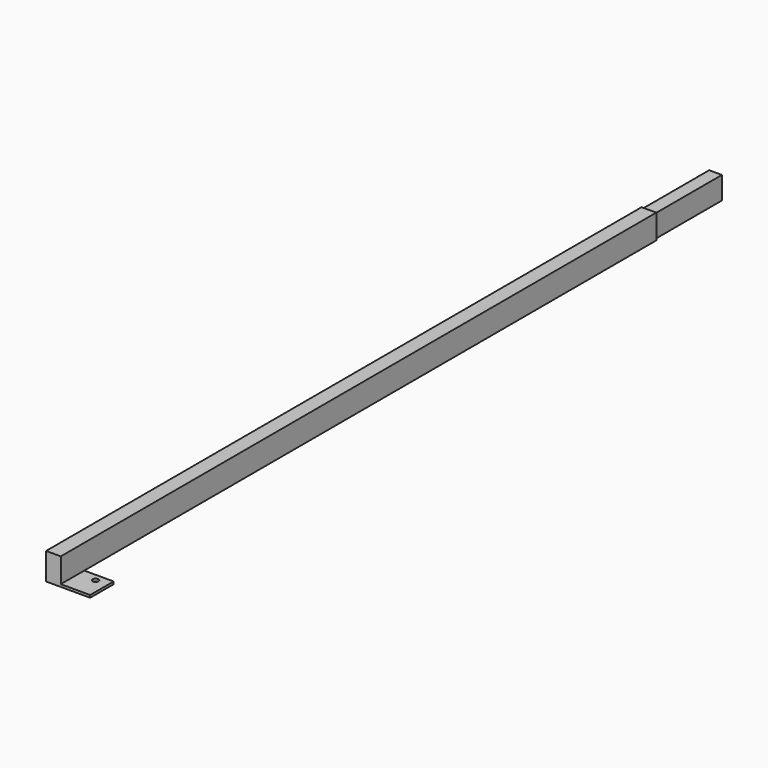
from build123d import *

# Parameters (mm, degrees)
F0_W     = 26
F0_H     = 46
F1_DEPTH = 170
F2_W     = 30
F2_H     = 50
F3_DEPTH = 1520
F5_DEPTH = 5


with BuildPart() as f1:
    # F0 (on Front) → F1 (new body)
    with BuildSketch(Plane.XZ):
        Rectangle(F0_W, F0_H)
    extrude(amount=F1_DEPTH)

    # F2 (on face) → F3 (join)
    with BuildSketch(Plane.XZ.offset(170)):
        Rectangle(F2_W, F2_H)
    extrude(amount=F3_DEPTH)

    # F4 (on face) → F5 (join)
    with BuildSketch(Plane(origin=(0, 0, -25), x_dir=(1, 0, 0), z_dir=(0, 0, -1))):
        Polygon((15, 1690), (-15, 1690), (-15, 1630), (15, 1630), (15, 1645), align=None)
        with BuildLine():
            ThreePointArc((56, 1645), (50, 1651), (44, 1645))
            ThreePointArc((44, 1645), (50, 1639), (56, 1645))
        make_face()
        Polygon((75, 1690), (15, 1690), (15, 1645), (15, 1630), (75, 1630), align=None)
        with BuildLine():
            ThreePointArc((56, 1645), (50, 1639), (44, 1645))
            ThreePointArc((44, 1645), (50, 1651), (56, 1645))
        make_face(mode=Mode.SUBTRACT)
    extrude(amount=F5_DEPTH)


solid = f1.part
